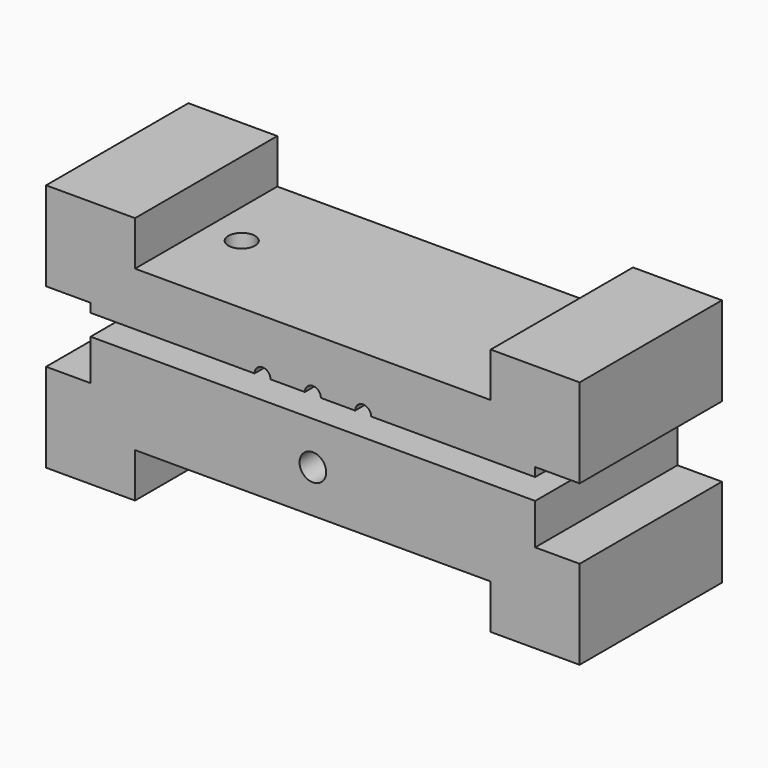
from build123d import *

# Parameters (mm, degrees)
F0_W     = 2.5
F0_H     = 2.5
F1_DEPTH = 10
F2_R     = 0.75
F3_DEPTH = 25
F4_D     = 1.5


with BuildPart() as f1:
    # F0 (on Front) → F1 (new body)
    with BuildSketch(Plane.XZ):
        with BuildLine():
            Line((-11.0857598856, 1.2953278515), (-11.0857598856, 0.7953278515))
            Line((-11.0857598856, 0.7953278515), (-1.8642401144, 0.7953278515))
            ThreePointArc((-1.8642401144, 0.7953278515), (-1.4142401144, 1.2453278515), (-0.9642401144, 0.7953278515))
            Line((-0.9642401144, 0.7953278515), (0.9642401144, 0.7953278515))
            ThreePointArc((0.9642401144, 0.7953278515), (1.0960420629, 1.1135259031), (1.4142401144, 1.2453278515))
            Line((1.4142401144, 1.2453278515), (1.4142401144, 3.7953278515))
            Line((1.4142401144, 3.7953278515), (-8.5857598856, 3.7953278515))
            Line((-8.5857598856, 3.7953278515), (-8.5857598856, 1.2953278515))
            Line((-8.5857598856, 1.2953278515), (-11.0857598856, 1.2953278515))
        make_face()
        with BuildLine():
            Line((1.4142401144, 3.7953278515), (1.4142401144, 1.2453278515))
            ThreePointArc((1.4142401144, 1.2453278515), (1.7324381659, 1.1135259031), (1.8642401144, 0.7953278515))
            Line((1.8642401144, 0.7953278515), (3.7927203432, 0.7953278515))
            ThreePointArc((3.7927203432, 0.7953278515), (4.2427203432, 1.2453278515), (4.6927203432, 0.7953278515))
            Line((4.6927203432, 0.7953278515), (13.9142401144, 0.7953278515))
            Line((13.9142401144, 0.7953278515), (13.9142401144, 1.2953278515))
            Line((13.9142401144, 1.2953278515), (11.4142401144, 1.2953278515))
            Line((11.4142401144, 1.2953278515), (11.4142401144, 3.7953278515))
            Line((11.4142401144, 3.7953278515), (1.4142401144, 3.7953278515))
        make_face()
        Polygon((-13.5857598856, 1.2953278515), (-11.0857598856, 1.2953278515), (-11.0857598856, 3.7953278515), (-8.5857598856, 3.7953278515), (-8.5857598856, 6.2953278515), (-13.5857598856, 6.2953278515), align=None)
        with Locations((-9.8357598856, 2.5453278515)):
            Rectangle(F0_W, F0_H)
        Polygon((11.4142401144, 6.2953278515), (11.4142401144, 3.7953278515), (13.9142401144, 3.7953278515), (13.9142401144, 1.2953278515), (16.4142401144, 1.2953278515), (16.4142401144, 6.2953278515), align=None)
        with Locations((12.6642401144, 2.5453278515)):
            Rectangle(F0_W, F0_H)
    extrude(amount=F1_DEPTH)


with BuildPart() as f1b:
    # F0 (on Front) → F1, piece 2 (new body)
    with BuildSketch(Plane.XZ):
        Polygon((13.9142401144, -0.3843072875), (1.4142401144, -0.3843072875), (1.4142401144, -5.1843072875), (11.4142401144, -5.1843072875), (11.4142401144, -2.6843072875), (13.9142401144, -2.6843072875), align=None)
        with Locations((12.6642401144, -3.9343072875)):
            Rectangle(F0_W, F0_H)
        Polygon((13.9142401144, -5.1843072875), (11.4142401144, -5.1843072875), (11.4142401144, -7.6843072875), (16.4142401144, -7.6843072875), (16.4142401144, -2.6843072875), (13.9142401144, -2.6843072875), align=None)
        Polygon((-11.0857598856, -5.1843072875), (-11.0857598856, -2.6843072875), (-13.5857598856, -2.6843072875), (-13.5857598856, -7.6843072875), (-8.5857598856, -7.6843072875), (-8.5857598856, -5.1843072875), align=None)
        with Locations((-9.8357598856, -3.9343072875)):
            Rectangle(F0_W, F0_H)
        Polygon((1.4142401144, -0.3843072875), (-11.0857598856, -0.3843072875), (-11.0857598856, -2.6843072875), (-8.5857598856, -2.6843072875), (-8.5857598856, -5.1843072875), (1.4142401144, -5.1843072875), align=None)
    extrude(amount=F1_DEPTH)


with BuildPart() as f3_tool:
    # F2 (on face) → F3 (new body)
    with BuildSketch(Plane.XY.offset(3.7953278515)):
        with Locations((-6.5857598856, -5)):
            Circle(F2_R)
        with Locations((9.4142401144, -5)):
            Circle(F2_R)
    extrude(amount=-F3_DEPTH)


with BuildPart() as f1_1:
    add(f1.part)

    # F3: cut by f3_tool
    add(f3_tool.part, mode=Mode.SUBTRACT)


with BuildPart() as f1b_1:
    add(f1b.part)

    # F3: cut by f3_tool
    add(f3_tool.part, mode=Mode.SUBTRACT)

    # F4 (through all)
    with Locations(Plane(origin=(0, 0, 0), x_dir=(1, 0, 0), z_dir=(0, 1, 0))):
        with Locations((1.4142401144, 2.7843072875)):
            Hole(F4_D / 2)


solid = Compound([f1_1.part, f1b_1.part])
